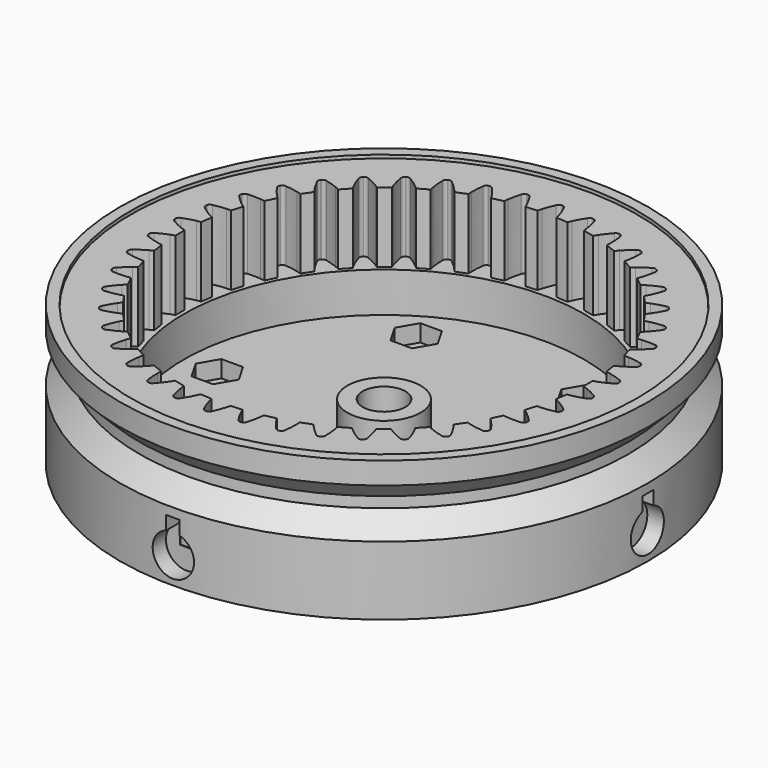
from build123d import *

# Parameters (mm, degrees)
PAD011_DEPTH          = 15
SKETCH019_R           = 0.15
SKETCH020_R           = 1.7
POCKET012_DEPTH       = 231.915721
POLARPATTERN001_COUNT = 6
POCKET013_DEPTH       = 2.55
POLARPATTERN_COUNT    = 6
SKETCH_R              = 1.5
POCKET_DEPTH          = 9
POLARPATTERN002_COUNT = 12
SKETCH022_W           = 2.6
SKETCH022_H           = 3.1
POLARPATTERN003_COUNT = 4
SKETCH023_W           = 2
SKETCH023_H           = 5
POCKET014_DEPTH       = 5
POLARPATTERN004_COUNT = 4
CHAMFER_SIZE          = 4


with BuildPart() as pad011:
    # InvoluteGear005 → Pad011 (new body)
    with BuildSketch(Plane.XY.offset(10)):
        with BuildLine():
            add(Edge.make_bspline(
                [(32.945842, -1.894398), (32.276697, -1.515423), (31.687965, -1.251623), (31.199009, -1.06892)],
                knots=[0, 0, 0, 0, 1, 1, 1, 1], degree=3))
            add(Edge.make_bspline(
                [(31.199009, -1.06892), (30.97308, -0.984517), (30.768823, -0.917605), (30.587794, -0.864651)],
                knots=[0, 0, 0, 0, 1, 1, 1, 1], degree=3))
            ThreePointArc((30.587794, -0.864651), (30.575569, -2e-06), (30.587782, 0.864646))
            add(Edge.make_bspline(
                [(30.587782, 0.864646), (30.768823, 0.917605), (30.97308, 0.984517), (31.199009, 1.06892)],
                knots=[0, 0, 0, 0, 1, 1, 1, 1], degree=3))
            add(Edge.make_bspline(
                [(31.199009, 1.06892), (31.687965, 1.251623), (32.276697, 1.515423), (32.945842, 1.894398)],
                knots=[0, 0, 0, 0, 1, 1, 1, 1], degree=3))
            ThreePointArc((32.945842, 1.894398), (33.204161, 2.118555), (33.284887, 2.450909))
            ThreePointArc((33.284887, 2.450909), (33.281621, 2.494113), (33.278411, 2.537321))
            ThreePointArc((33.278411, 2.537321), (33.149052, 2.853931), (32.86021, 3.037084))
            add(Edge.make_bspline(
                [(32.86021, 3.037084), (32.142055, 3.312095), (31.520581, 3.485203), (31.009856, 3.59299)],
                knots=[0, 0, 0, 0, 1, 1, 1, 1], degree=3))
            add(Edge.make_bspline(
                [(31.009856, 3.59299), (30.773871, 3.642777), (30.561923, 3.678499), (30.375023, 3.703881)],
                knots=[0, 0, 0, 0, 1, 1, 1, 1], degree=3))
            ThreePointArc((30.375023, 3.703881), (30.234066, 4.55705), (30.117273, 5.413861))
            add(Edge.make_bspline(
                [(30.117273, 5.413861), (30.288399, 5.493211), (30.480402, 5.589819), (30.691228, 5.706952)],
                knots=[0, 0, 0, 0, 1, 1, 1, 1], degree=3))
            add(Edge.make_bspline(
                [(30.691228, 5.706952), (31.147492, 5.96049), (31.690331, 6.309089), (32.295519, 6.783562)],
                knots=[0, 0, 0, 0, 1, 1, 1, 1], degree=3))
            ThreePointArc((32.295519, 6.783562), (32.517544, 7.043716), (32.547833, 7.384389))
            ThreePointArc((32.547833, 7.384389), (32.538164, 7.426624), (32.52855, 7.468871))
            ThreePointArc((32.52855, 7.468871), (32.353449, 7.762665), (32.040535, 7.900723))
            add(Edge.make_bspline(
                [(32.040535, 7.900723), (31.289413, 8.065626), (30.64908, 8.144175), (30.127994, 8.174639)],
                knots=[0, 0, 0, 0, 1, 1, 1, 1], degree=3))
            add(Edge.make_bspline(
                [(30.127994, 8.174639), (29.887225, 8.188698), (29.67232, 8.192432), (29.483724, 8.189674)],
                knots=[0, 0, 0, 0, 1, 1, 1, 1], degree=3))
            ThreePointArc((29.483724, 8.189674), (29.217183, 9.012305), (28.973993, 9.842139))
            add(Edge.make_bspline(
                [(28.973993, 9.842139), (29.131382, 9.946108), (29.306842, 10.070254), (29.497855, 10.2175)],
                knots=[0, 0, 0, 0, 1, 1, 1, 1], degree=3))
            add(Edge.make_bspline(
                [(29.497855, 10.2175), (29.911235, 10.536209), (30.396055, 10.961821), (30.923768, 11.521192)],
                knots=[0, 0, 0, 0, 1, 1, 1, 1], degree=3))
            ThreePointArc((30.923768, 11.521192), (31.104538, 11.811532), (31.083714, 12.152914))
            ThreePointArc((31.083714, 12.152914), (31.067859, 12.193236), (31.052056, 12.233579))
            ThreePointArc((31.052056, 12.233579), (30.835122, 12.497993), (30.505127, 12.587872))
            add(Edge.make_bspline(
                [(30.505127, 12.587872), (29.737817, 12.638985), (29.092929, 12.621219), (28.573123, 12.573679)],
                knots=[0, 0, 0, 0, 1, 1, 1, 1], degree=3))
            add(Edge.make_bspline(
                [(28.573123, 12.573679), (28.332947, 12.551697), (28.119886, 12.523359), (27.933808, 12.492523)],
                knots=[0, 0, 0, 0, 1, 1, 1, 1], degree=3))
            ThreePointArc((27.933808, 12.492523), (27.547637, 13.26624), (27.183483, 14.05056))
            add(Edge.make_bspline(
                [(27.183483, 14.05056), (27.323618, 14.176826), (27.478615, 14.325735), (27.645549, 14.499806)],
                knots=[0, 0, 0, 0, 1, 1, 1, 1], degree=3))
            add(Edge.make_bspline(
                [(27.645549, 14.499806), (28.006811, 14.876566), (28.422782, 15.369683), (28.86123, 16.001458)],
                knots=[0, 0, 0, 0, 1, 1, 1, 1], degree=3))
            ThreePointArc((28.86123, 16.001458), (28.996709, 16.315498), (28.925237, 16.649963))
            ThreePointArc((28.925237, 16.649963), (28.903549, 16.687472), (28.88191, 16.725009))
            ThreePointArc((28.88191, 16.725009), (28.62799, 16.954138), (28.288285, 16.993829))
            add(Edge.make_bspline(
                [(28.288285, 16.993829), (27.521927, 16.93001), (26.88689, 16.816327), (26.379975, 16.691845)],
                knots=[0, 0, 0, 0, 1, 1, 1, 1], degree=3))
            add(Edge.make_bspline(
                [(26.379975, 16.691845), (26.145758, 16.634311), (25.9393, 16.574535), (25.759897, 16.51631)],
                knots=[0, 0, 0, 0, 1, 1, 1, 1], degree=3))
            ThreePointArc((25.759897, 16.51631), (25.262722, 17.223829), (24.785739, 17.945115))
            add(Edge.make_bspline(
                [(24.785739, 17.945115), (24.90549, 18.090856), (25.036562, 18.261204), (25.175687, 18.458211)],
                knots=[0, 0, 0, 0, 1, 1, 1, 1], degree=3))
            add(Edge.make_bspline(
                [(25.175687, 18.458211), (25.476761, 18.884606), (25.814591, 19.434212), (26.15398, 20.124279)],
                knots=[0, 0, 0, 0, 1, 1, 1, 1], degree=3))
            ThreePointArc((26.15398, 20.124279), (26.241141, 20.455003), (26.120618, 20.77508))
            ThreePointArc((26.120618, 20.77508), (26.093582, 20.808937), (26.06659, 20.842829))
            ThreePointArc((26.06659, 20.842829), (25.781356, 21.031554), (25.439529, 21.020172))
            add(Edge.make_bspline(
                [(25.439529, 21.020172), (24.691243, 20.842846), (24.080242, 20.635785), (23.597542, 20.437142)],
                knots=[0, 0, 0, 0, 1, 1, 1, 1], degree=3))
            add(Edge.make_bspline(
                [(23.597542, 20.437142), (23.374516, 20.345343), (23.179273, 20.255463), (23.010552, 20.17115)],
                knots=[0, 0, 0, 0, 1, 1, 1, 1], degree=3))
            ThreePointArc((23.010552, 20.17115), (22.41348, 20.796667), (21.834322, 21.438806))
            add(Edge.make_bspline(
                [(21.834322, 21.438806), (21.931014, 21.600767), (22.035233, 21.788747), (22.143442, 22.004289)],
                knots=[0, 0, 0, 0, 1, 1, 1, 1], degree=3))
            add(Edge.make_bspline(
                [(22.143442, 22.004289), (22.377602, 22.470795), (22.629744, 23.064613), (22.862494, 23.797555)],
                knots=[0, 0, 0, 0, 1, 1, 1, 1], degree=3))
            ThreePointArc((22.862494, 23.797555), (22.899389, 24.137576), (22.732507, 24.436116))
            ThreePointArc((22.732507, 24.436116), (22.700727, 24.465565), (22.668985, 24.495056))
            ThreePointArc((22.668985, 24.495056), (22.358809, 24.639161), (22.022496, 24.576959))
            add(Edge.make_bspline(
                [(22.022496, 24.576959), (21.308997, 24.290087), (20.735681, 23.994274), (20.287979, 23.725907)],
                knots=[0, 0, 0, 0, 1, 1, 1, 1], degree=3))
            add(Edge.make_bspline(
                [(20.287979, 23.725907), (20.081126, 23.601893), (19.90146, 23.483917), (19.747189, 23.375399)],
                knots=[0, 0, 0, 0, 1, 1, 1, 1], degree=3))
            ThreePointArc((19.747189, 23.375399), (19.063558, 23.904941), (18.395162, 24.453589))
            add(Edge.make_bspline(
                [(18.395162, 24.453589), (18.466635, 24.628152), (18.541673, 24.829566), (18.616549, 25.058828)],
                knots=[0, 0, 0, 0, 1, 1, 1, 1], degree=3))
            add(Edge.make_bspline(
                [(18.616549, 25.058828), (18.778565, 25.555023), (18.939386, 26.179789), (19.060297, 26.939234)],
                knots=[0, 0, 0, 0, 1, 1, 1, 1], degree=3))
            ThreePointArc((19.060297, 26.939234), (19.046103, 27.280956), (18.83659, 27.551289))
            ThreePointArc((18.83659, 27.551289), (18.800775, 27.575673), (18.764992, 27.600103))
            ThreePointArc((18.764992, 27.600103), (18.436803, 27.69637), (18.113518, 27.584738))
            add(Edge.make_bspline(
                [(18.113518, 27.584738), (17.450744, 27.194728), (16.92792, 26.816771), (16.525216, 26.484675)],
                knots=[0, 0, 0, 0, 1, 1, 1, 1], degree=3))
            add(Edge.make_bspline(
                [(16.525216, 26.484675), (16.339157, 26.331216), (16.179081, 26.18778), (16.042707, 26.057481)],
                knots=[0, 0, 0, 0, 1, 1, 1, 1], degree=3))
            ThreePointArc((16.042707, 26.057481), (15.287787, 26.479219), (14.545085, 26.922119))
            add(Edge.make_bspline(
                [(14.545085, 26.922119), (14.589743, 27.105385), (14.633923, 27.315733), (14.673793, 27.553594)],
                knots=[0, 0, 0, 0, 1, 1, 1, 1], degree=3))
            add(Edge.make_bspline(
                [(14.673793, 27.553594), (14.760045, 28.068394), (14.825954, 28.710151), (14.832325, 29.479135)],
                knots=[0, 0, 0, 0, 1, 1, 1, 1], degree=3))
            ThreePointArc((14.832325, 29.479135), (14.767358, 29.814925), (14.519894, 30.051012))
            ThreePointArc((14.519894, 30.051012), (14.480845, 30.069785), (14.441821, 30.08861))
            ThreePointArc((14.441821, 30.08861), (14.10295, 30.134887), (13.799913, 29.976319))
            add(Edge.make_bspline(
                [(13.799913, 29.976319), (13.202669, 29.491884), (12.742017, 29.040225), (12.393307, 28.651819)],
                knots=[0, 0, 0, 0, 1, 1, 1, 1], degree=3))
            add(Edge.make_bspline(
                [(12.393307, 28.651819), (12.232198, 28.472343), (12.095288, 28.306651), (11.979857, 28.157482)],
                knots=[0, 0, 0, 0, 1, 1, 1, 1], degree=3))
            ThreePointArc((11.979857, 28.157482), (11.170512, 28.461994), (10.370095, 28.789254))
            add(Edge.make_bspline(
                [(10.370095, 28.789254), (10.386939, 28.977129), (10.399276, 29.191712), (10.403249, 29.432859)],
                knots=[0, 0, 0, 0, 1, 1, 1, 1], degree=3))
            add(Edge.make_bspline(
                [(10.403249, 29.432859), (10.41181, 29.954764), (10.381334, 30.599176), (10.273023, 31.360521)],
                knots=[0, 0, 0, 0, 1, 1, 1, 1], degree=3))
            ThreePointArc((10.273023, 31.360521), (10.158735, 31.682877), (9.878848, 31.879445))
            ThreePointArc((9.878848, 31.879445), (9.837437, 31.892189), (9.796043, 31.904986))
            ThreePointArc((9.796043, 31.904986), (9.45406, 31.900241), (9.178041, 31.698278))
            add(Edge.make_bspline(
                [(9.178041, 31.698278), (8.659669, 31.13024), (8.271478, 30.614969), (7.984552, 30.178928)],
                knots=[0, 0, 0, 0, 1, 1, 1, 1], degree=3))
            add(Edge.make_bspline(
                [(7.984552, 30.178928), (7.851992, 29.977445), (7.741306, 29.793198), (7.649397, 29.628491)],
                knots=[0, 0, 0, 0, 1, 1, 1, 1], degree=3))
            ThreePointArc((7.649397, 29.628491), (6.803707, 29.808975), (5.963454, 30.013284))
            add(Edge.make_bspline(
                [(5.963454, 30.013284), (5.952109, 30.201571), (5.932325, 30.415596), (5.900313, 30.654642)],
                knots=[0, 0, 0, 0, 1, 1, 1, 1], degree=3))
            add(Edge.make_bspline(
                [(5.900313, 30.654642), (5.830993, 31.171994), (5.704813, 31.804667), (5.484239, 32.541364)],
                knots=[0, 0, 0, 0, 1, 1, 1, 1], degree=3))
            ThreePointArc((5.484239, 32.541364), (5.323182, 32.843086), (5.017125, 32.995743))
            ThreePointArc((5.017125, 32.995743), (4.974277, 33.002173), (4.931438, 33.008659))
            ThreePointArc((4.931438, 33.008659), (4.593981, 32.952996), (4.351146, 32.712151))
            add(Edge.make_bspline(
                [(4.351146, 32.712151), (3.923226, 32.073197), (3.616168, 31.505825), (3.397436, 31.03189)],
                knots=[0, 0, 0, 0, 1, 1, 1, 1], degree=3))
            add(Edge.make_bspline(
                [(3.397436, 31.03189), (3.296386, 30.8129), (3.214396, 30.614215), (3.148062, 30.437649)],
                knots=[0, 0, 0, 0, 1, 1, 1, 1], degree=3))
            ThreePointArc((3.148062, 30.437649), (2.284918, 30.490074), (1.423599, 30.566867))
            add(Edge.make_bspline(
                [(1.423599, 30.566867), (1.384318, 30.75136), (1.332857, 30.960046), (1.265574, 31.191651)],
                knots=[0, 0, 0, 0, 1, 1, 1, 1], degree=3))
            add(Edge.make_bspline(
                [(1.265574, 31.191651), (1.119921, 31.692893), (0.900855, 32.299693), (0.572945, 32.995288)],
                knots=[0, 0, 0, 0, 1, 1, 1, 1], degree=3))
            ThreePointArc((0.572945, 32.995288), (0.368719, 33.269636), (0.043327, 33.374972))
            ThreePointArc((0.043327, 33.374972), (0, 33.374944), (-0.043327, 33.374972))
            ThreePointArc((-0.043327, 33.374972), (-0.368719, 33.269636), (-0.572945, 32.995288))
            add(Edge.make_bspline(
                [(-0.572945, 32.995288), (-0.900855, 32.299693), (-1.119921, 31.692893), (-1.265574, 31.191651)],
                knots=[0, 0, 0, 0, 1, 1, 1, 1], degree=3))
            add(Edge.make_bspline(
                [(-1.265574, 31.191651), (-1.332857, 30.960046), (-1.384318, 30.75136), (-1.423596, 30.56688)],
                knots=[0, 0, 0, 0, 1, 1, 1, 1], degree=3))
            ThreePointArc((-1.423596, 30.56688), (-2.284913, 30.490074), (-3.148056, 30.437637))
            add(Edge.make_bspline(
                [(-3.148056, 30.437637), (-3.214396, 30.614215), (-3.296386, 30.8129), (-3.397436, 31.03189)],
                knots=[0, 0, 0, 0, 1, 1, 1, 1], degree=3))
            add(Edge.make_bspline(
                [(-3.397436, 31.03189), (-3.616168, 31.505825), (-3.923226, 32.073197), (-4.351146, 32.712151)],
                knots=[0, 0, 0, 0, 1, 1, 1, 1], degree=3))
            ThreePointArc((-4.351146, 32.712151), (-4.593981, 32.952996), (-4.931438, 33.008659))
            ThreePointArc((-4.931438, 33.008659), (-4.974277, 33.002173), (-5.017125, 32.995743))
            ThreePointArc((-5.017125, 32.995743), (-5.323182, 32.843086), (-5.484239, 32.541364))
            add(Edge.make_bspline(
                [(-5.484239, 32.541364), (-5.704813, 31.804667), (-5.830993, 31.171994), (-5.900313, 30.654642)],
                knots=[0, 0, 0, 0, 1, 1, 1, 1], degree=3))
            add(Edge.make_bspline(
                [(-5.900313, 30.654642), (-5.932325, 30.415596), (-5.952109, 30.201571), (-5.963452, 30.013297)],
                knots=[0, 0, 0, 0, 1, 1, 1, 1], degree=3))
            ThreePointArc((-5.963452, 30.013297), (-6.803702, 29.808977), (-7.649389, 29.62848))
            add(Edge.make_bspline(
                [(-7.649389, 29.62848), (-7.741306, 29.793198), (-7.851992, 29.977445), (-7.984552, 30.178928)],
                knots=[0, 0, 0, 0, 1, 1, 1, 1], degree=3))
            add(Edge.make_bspline(
                [(-7.984552, 30.178928), (-8.271478, 30.614969), (-8.659669, 31.13024), (-9.178041, 31.698278)],
                knots=[0, 0, 0, 0, 1, 1, 1, 1], degree=3))
            ThreePointArc((-9.178041, 31.698278), (-9.45406, 31.900241), (-9.796043, 31.904986))
            ThreePointArc((-9.796043, 31.904986), (-9.837437, 31.892189), (-9.878848, 31.879445))
            ThreePointArc((-9.878848, 31.879445), (-10.158735, 31.682877), (-10.273023, 31.360521))
            add(Edge.make_bspline(
                [(-10.273023, 31.360521), (-10.381334, 30.599176), (-10.41181, 29.954764), (-10.403249, 29.432859)],
                knots=[0, 0, 0, 0, 1, 1, 1, 1], degree=3))
            add(Edge.make_bspline(
                [(-10.403249, 29.432859), (-10.399276, 29.191712), (-10.386939, 28.977129), (-10.370095, 28.789267)],
                knots=[0, 0, 0, 0, 1, 1, 1, 1], degree=3))
            ThreePointArc((-10.370095, 28.789267), (-11.170508, 28.461996), (-11.979848, 28.157472))
            add(Edge.make_bspline(
                [(-11.979848, 28.157472), (-12.095288, 28.306651), (-12.232198, 28.472343), (-12.393307, 28.651819)],
                knots=[0, 0, 0, 0, 1, 1, 1, 1], degree=3))
            add(Edge.make_bspline(
                [(-12.393307, 28.651819), (-12.742017, 29.040225), (-13.202669, 29.491884), (-13.799913, 29.976319)],
                knots=[0, 0, 0, 0, 1, 1, 1, 1], degree=3))
            ThreePointArc((-13.799913, 29.976319), (-14.10295, 30.134887), (-14.441821, 30.08861))
            ThreePointArc((-14.441821, 30.08861), (-14.480845, 30.069785), (-14.519894, 30.051012))
            ThreePointArc((-14.519894, 30.051012), (-14.767358, 29.814925), (-14.832325, 29.479135))
            add(Edge.make_bspline(
                [(-14.832325, 29.479135), (-14.825954, 28.710151), (-14.760045, 28.068394), (-14.673793, 27.553594)],
                knots=[0, 0, 0, 0, 1, 1, 1, 1], degree=3))
            add(Edge.make_bspline(
                [(-14.673793, 27.553594), (-14.633923, 27.315733), (-14.589743, 27.105385), (-14.545087, 26.922132)],
                knots=[0, 0, 0, 0, 1, 1, 1, 1], degree=3))
            ThreePointArc((-14.545087, 26.922132), (-15.287783, 26.479221), (-16.042696, 26.057473))
            add(Edge.make_bspline(
                [(-16.042696, 26.057473), (-16.179081, 26.18778), (-16.339157, 26.331216), (-16.525216, 26.484675)],
                knots=[0, 0, 0, 0, 1, 1, 1, 1], degree=3))
            add(Edge.make_bspline(
                [(-16.525216, 26.484675), (-16.92792, 26.816771), (-17.450744, 27.194728), (-18.113518, 27.584738)],
                knots=[0, 0, 0, 0, 1, 1, 1, 1], degree=3))
            ThreePointArc((-18.113518, 27.584738), (-18.436803, 27.69637), (-18.764992, 27.600103))
            ThreePointArc((-18.764992, 27.600103), (-18.800775, 27.575673), (-18.83659, 27.551289))
            ThreePointArc((-18.83659, 27.551289), (-19.046103, 27.280956), (-19.060297, 26.939234))
            add(Edge.make_bspline(
                [(-19.060297, 26.939234), (-18.939386, 26.179789), (-18.778565, 25.555023), (-18.616549, 25.058828)],
                knots=[0, 0, 0, 0, 1, 1, 1, 1], degree=3))
            add(Edge.make_bspline(
                [(-18.616549, 25.058828), (-18.541673, 24.829566), (-18.466635, 24.628152), (-18.395166, 24.453601)],
                knots=[0, 0, 0, 0, 1, 1, 1, 1], degree=3))
            ThreePointArc((-18.395166, 24.453601), (-19.063554, 23.904944), (-19.747177, 23.375393))
            add(Edge.make_bspline(
                [(-19.747177, 23.375393), (-19.90146, 23.483917), (-20.081126, 23.601893), (-20.287979, 23.725907)],
                knots=[0, 0, 0, 0, 1, 1, 1, 1], degree=3))
            add(Edge.make_bspline(
                [(-20.287979, 23.725907), (-20.735681, 23.994274), (-21.308997, 24.290087), (-22.022496, 24.576959)],
                knots=[0, 0, 0, 0, 1, 1, 1, 1], degree=3))
            ThreePointArc((-22.022496, 24.576959), (-22.358809, 24.639161), (-22.668985, 24.495056))
            ThreePointArc((-22.668985, 24.495056), (-22.700727, 24.465565), (-22.732507, 24.436116))
            ThreePointArc((-22.732507, 24.436116), (-22.899389, 24.137576), (-22.862494, 23.797555))
            add(Edge.make_bspline(
                [(-22.862494, 23.797555), (-22.629744, 23.064613), (-22.377602, 22.470795), (-22.143442, 22.004289)],
                knots=[0, 0, 0, 0, 1, 1, 1, 1], degree=3))
            add(Edge.make_bspline(
                [(-22.143442, 22.004289), (-22.035233, 21.788747), (-21.931014, 21.600767), (-21.834328, 21.438817)],
                knots=[0, 0, 0, 0, 1, 1, 1, 1], degree=3))
            ThreePointArc((-21.834328, 21.438817), (-22.413477, 20.796671), (-23.010539, 20.171145))
            add(Edge.make_bspline(
                [(-23.010539, 20.171145), (-23.179273, 20.255463), (-23.374516, 20.345343), (-23.597542, 20.437142)],
                knots=[0, 0, 0, 0, 1, 1, 1, 1], degree=3))
            add(Edge.make_bspline(
                [(-23.597542, 20.437142), (-24.080242, 20.635785), (-24.691243, 20.842846), (-25.439529, 21.020172)],
                knots=[0, 0, 0, 0, 1, 1, 1, 1], degree=3))
            ThreePointArc((-25.439529, 21.020172), (-25.781356, 21.031554), (-26.06659, 20.842829))
            ThreePointArc((-26.06659, 20.842829), (-26.093582, 20.808937), (-26.120618, 20.77508))
            ThreePointArc((-26.120618, 20.77508), (-26.241141, 20.455003), (-26.15398, 20.124279))
            add(Edge.make_bspline(
                [(-26.15398, 20.124279), (-25.814591, 19.434212), (-25.476761, 18.884606), (-25.175687, 18.458211)],
                knots=[0, 0, 0, 0, 1, 1, 1, 1], degree=3))
            add(Edge.make_bspline(
                [(-25.175687, 18.458211), (-25.036562, 18.261204), (-24.90549, 18.090856), (-24.785746, 17.945126)],
                knots=[0, 0, 0, 0, 1, 1, 1, 1], degree=3))
            ThreePointArc((-24.785746, 17.945126), (-25.26272, 17.223834), (-25.759884, 16.516307))
            add(Edge.make_bspline(
                [(-25.759884, 16.516307), (-25.9393, 16.574535), (-26.145758, 16.634311), (-26.379975, 16.691845)],
                knots=[0, 0, 0, 0, 1, 1, 1, 1], degree=3))
            add(Edge.make_bspline(
                [(-26.379975, 16.691845), (-26.88689, 16.816327), (-27.521927, 16.93001), (-28.288285, 16.993829)],
                knots=[0, 0, 0, 0, 1, 1, 1, 1], degree=3))
            ThreePointArc((-28.288285, 16.993829), (-28.62799, 16.954138), (-28.88191, 16.725009))
            ThreePointArc((-28.88191, 16.725009), (-28.903549, 16.687472), (-28.925237, 16.649963))
            ThreePointArc((-28.925237, 16.649963), (-28.996709, 16.315498), (-28.86123, 16.001458))
            add(Edge.make_bspline(
                [(-28.86123, 16.001458), (-28.422782, 15.369683), (-28.006811, 14.876566), (-27.645549, 14.499806)],
                knots=[0, 0, 0, 0, 1, 1, 1, 1], degree=3))
            add(Edge.make_bspline(
                [(-27.645549, 14.499806), (-27.478615, 14.325735), (-27.323618, 14.176826), (-27.183492, 14.05057)],
                knots=[0, 0, 0, 0, 1, 1, 1, 1], degree=3))
            ThreePointArc((-27.183492, 14.05057), (-27.547635, 13.266245), (-27.933795, 12.492522))
            add(Edge.make_bspline(
                [(-27.933795, 12.492522), (-28.119886, 12.523359), (-28.332947, 12.551697), (-28.573123, 12.573679)],
                knots=[0, 0, 0, 0, 1, 1, 1, 1], degree=3))
            add(Edge.make_bspline(
                [(-28.573123, 12.573679), (-29.092929, 12.621219), (-29.737817, 12.638985), (-30.505127, 12.587872)],
                knots=[0, 0, 0, 0, 1, 1, 1, 1], degree=3))
            ThreePointArc((-30.505127, 12.587872), (-30.835122, 12.497993), (-31.052056, 12.233579))
            ThreePointArc((-31.052056, 12.233579), (-31.067859, 12.193236), (-31.083714, 12.152914))
            ThreePointArc((-31.083714, 12.152914), (-31.104538, 11.811532), (-30.923768, 11.521192))
            add(Edge.make_bspline(
                [(-30.923768, 11.521192), (-30.396055, 10.961821), (-29.911235, 10.536209), (-29.497855, 10.2175)],
                knots=[0, 0, 0, 0, 1, 1, 1, 1], degree=3))
            add(Edge.make_bspline(
                [(-29.497855, 10.2175), (-29.306842, 10.070254), (-29.131382, 9.946108), (-28.974004, 9.842147)],
                knots=[0, 0, 0, 0, 1, 1, 1, 1], degree=3))
            ThreePointArc((-28.974004, 9.842147), (-29.217182, 9.01231), (-29.483711, 8.189675))
            add(Edge.make_bspline(
                [(-29.483711, 8.189675), (-29.67232, 8.192432), (-29.887225, 8.188698), (-30.127994, 8.174639)],
                knots=[0, 0, 0, 0, 1, 1, 1, 1], degree=3))
            add(Edge.make_bspline(
                [(-30.127994, 8.174639), (-30.64908, 8.144175), (-31.289413, 8.065626), (-32.040535, 7.900723)],
                knots=[0, 0, 0, 0, 1, 1, 1, 1], degree=3))
            ThreePointArc((-32.040535, 7.900723), (-32.353449, 7.762665), (-32.52855, 7.468871))
            ThreePointArc((-32.52855, 7.468871), (-32.538164, 7.426624), (-32.547833, 7.384389))
            ThreePointArc((-32.547833, 7.384389), (-32.517544, 7.043716), (-32.295519, 6.783562))
            add(Edge.make_bspline(
                [(-32.295519, 6.783562), (-31.690331, 6.309089), (-31.147492, 5.96049), (-30.691228, 5.706952)],
                knots=[0, 0, 0, 0, 1, 1, 1, 1], degree=3))
            add(Edge.make_bspline(
                [(-30.691228, 5.706952), (-30.480402, 5.589819), (-30.288399, 5.493211), (-30.117284, 5.413868)],
                knots=[0, 0, 0, 0, 1, 1, 1, 1], degree=3))
            ThreePointArc((-30.117284, 5.413868), (-30.234065, 4.557055), (-30.37501, 3.703884))
            add(Edge.make_bspline(
                [(-30.37501, 3.703884), (-30.561923, 3.678499), (-30.773871, 3.642777), (-31.009856, 3.59299)],
                knots=[0, 0, 0, 0, 1, 1, 1, 1], degree=3))
            add(Edge.make_bspline(
                [(-31.009856, 3.59299), (-31.520581, 3.485203), (-32.142055, 3.312095), (-32.86021, 3.037084)],
                knots=[0, 0, 0, 0, 1, 1, 1, 1], degree=3))
            ThreePointArc((-32.86021, 3.037084), (-33.149052, 2.853931), (-33.278411, 2.537321))
            ThreePointArc((-33.278411, 2.537321), (-33.281621, 2.494113), (-33.284887, 2.450909))
            ThreePointArc((-33.284887, 2.450909), (-33.204161, 2.118555), (-32.945842, 1.894398))
            add(Edge.make_bspline(
                [(-32.945842, 1.894398), (-32.276697, 1.515423), (-31.687965, 1.251623), (-31.199009, 1.06892)],
                knots=[0, 0, 0, 0, 1, 1, 1, 1], degree=3))
            add(Edge.make_bspline(
                [(-31.199009, 1.06892), (-30.97308, 0.984517), (-30.768823, 0.917605), (-30.587794, 0.864651)],
                knots=[0, 0, 0, 0, 1, 1, 1, 1], degree=3))
            ThreePointArc((-30.587794, 0.864651), (-30.575569, 2e-06), (-30.587782, -0.864646))
            add(Edge.make_bspline(
                [(-30.587782, -0.864646), (-30.768823, -0.917605), (-30.97308, -0.984517), (-31.199009, -1.06892)],
                knots=[0, 0, 0, 0, 1, 1, 1, 1], degree=3))
            add(Edge.make_bspline(
                [(-31.199009, -1.06892), (-31.687965, -1.251623), (-32.276697, -1.515423), (-32.945842, -1.894398)],
                knots=[0, 0, 0, 0, 1, 1, 1, 1], degree=3))
            ThreePointArc((-32.945842, -1.894398), (-33.204161, -2.118555), (-33.284887, -2.450909))
            ThreePointArc((-33.284887, -2.450909), (-33.281621, -2.494113), (-33.278411, -2.537321))
            ThreePointArc((-33.278411, -2.537321), (-33.149052, -2.853931), (-32.86021, -3.037084))
            add(Edge.make_bspline(
                [(-32.86021, -3.037084), (-32.142055, -3.312095), (-31.520581, -3.485203), (-31.009856, -3.59299)],
                knots=[0, 0, 0, 0, 1, 1, 1, 1], degree=3))
            add(Edge.make_bspline(
                [(-31.009856, -3.59299), (-30.773871, -3.642777), (-30.561923, -3.678499), (-30.375023, -3.703881)],
                knots=[0, 0, 0, 0, 1, 1, 1, 1], degree=3))
            ThreePointArc((-30.375023, -3.703881), (-30.234066, -4.55705), (-30.117273, -5.413861))
            add(Edge.make_bspline(
                [(-30.117273, -5.413861), (-30.288399, -5.493211), (-30.480402, -5.589819), (-30.691228, -5.706952)],
                knots=[0, 0, 0, 0, 1, 1, 1, 1], degree=3))
            add(Edge.make_bspline(
                [(-30.691228, -5.706952), (-31.147492, -5.96049), (-31.690331, -6.309089), (-32.295519, -6.783562)],
                knots=[0, 0, 0, 0, 1, 1, 1, 1], degree=3))
            ThreePointArc((-32.295519, -6.783562), (-32.517544, -7.043716), (-32.547833, -7.384389))
            ThreePointArc((-32.547833, -7.384389), (-32.538164, -7.426624), (-32.52855, -7.468871))
            ThreePointArc((-32.52855, -7.468871), (-32.353449, -7.762665), (-32.040535, -7.900723))
            add(Edge.make_bspline(
                [(-32.040535, -7.900723), (-31.289413, -8.065626), (-30.64908, -8.144175), (-30.127994, -8.174639)],
                knots=[0, 0, 0, 0, 1, 1, 1, 1], degree=3))
            add(Edge.make_bspline(
                [(-30.127994, -8.174639), (-29.887225, -8.188698), (-29.67232, -8.192432), (-29.483724, -8.189674)],
                knots=[0, 0, 0, 0, 1, 1, 1, 1], degree=3))
            ThreePointArc((-29.483724, -8.189674), (-29.217183, -9.012305), (-28.973993, -9.842139))
            add(Edge.make_bspline(
                [(-28.973993, -9.842139), (-29.131382, -9.946108), (-29.306842, -10.070254), (-29.497855, -10.2175)],
                knots=[0, 0, 0, 0, 1, 1, 1, 1], degree=3))
            add(Edge.make_bspline(
                [(-29.497855, -10.2175), (-29.911235, -10.536209), (-30.396055, -10.961821), (-30.923768, -11.521192)],
                knots=[0, 0, 0, 0, 1, 1, 1, 1], degree=3))
            ThreePointArc((-30.923768, -11.521192), (-31.104538, -11.811532), (-31.083714, -12.152914))
            ThreePointArc((-31.083714, -12.152914), (-31.067859, -12.193236), (-31.052056, -12.233579))
            ThreePointArc((-31.052056, -12.233579), (-30.835122, -12.497993), (-30.505127, -12.587872))
            add(Edge.make_bspline(
                [(-30.505127, -12.587872), (-29.737817, -12.638985), (-29.092929, -12.621219), (-28.573123, -12.573679)],
                knots=[0, 0, 0, 0, 1, 1, 1, 1], degree=3))
            add(Edge.make_bspline(
                [(-28.573123, -12.573679), (-28.332947, -12.551697), (-28.119886, -12.523359), (-27.933808, -12.492523)],
                knots=[0, 0, 0, 0, 1, 1, 1, 1], degree=3))
            ThreePointArc((-27.933808, -12.492523), (-27.547637, -13.26624), (-27.183483, -14.05056))
            add(Edge.make_bspline(
                [(-27.183483, -14.05056), (-27.323618, -14.176826), (-27.478615, -14.325735), (-27.645549, -14.499806)],
                knots=[0, 0, 0, 0, 1, 1, 1, 1], degree=3))
            add(Edge.make_bspline(
                [(-27.645549, -14.499806), (-28.006811, -14.876566), (-28.422782, -15.369683), (-28.86123, -16.001458)],
                knots=[0, 0, 0, 0, 1, 1, 1, 1], degree=3))
            ThreePointArc((-28.86123, -16.001458), (-28.996709, -16.315498), (-28.925237, -16.649963))
            ThreePointArc((-28.925237, -16.649963), (-28.903549, -16.687472), (-28.88191, -16.725009))
            ThreePointArc((-28.88191, -16.725009), (-28.62799, -16.954138), (-28.288285, -16.993829))
            add(Edge.make_bspline(
                [(-28.288285, -16.993829), (-27.521927, -16.93001), (-26.88689, -16.816327), (-26.379975, -16.691845)],
                knots=[0, 0, 0, 0, 1, 1, 1, 1], degree=3))
            add(Edge.make_bspline(
                [(-26.379975, -16.691845), (-26.145758, -16.634311), (-25.9393, -16.574535), (-25.759897, -16.51631)],
                knots=[0, 0, 0, 0, 1, 1, 1, 1], degree=3))
            ThreePointArc((-25.759897, -16.51631), (-25.262722, -17.223829), (-24.785739, -17.945115))
            add(Edge.make_bspline(
                [(-24.785739, -17.945115), (-24.90549, -18.090856), (-25.036562, -18.261204), (-25.175687, -18.458211)],
                knots=[0, 0, 0, 0, 1, 1, 1, 1], degree=3))
            add(Edge.make_bspline(
                [(-25.175687, -18.458211), (-25.476761, -18.884606), (-25.814591, -19.434212), (-26.15398, -20.124279)],
                knots=[0, 0, 0, 0, 1, 1, 1, 1], degree=3))
            ThreePointArc((-26.15398, -20.124279), (-26.241141, -20.455003), (-26.120618, -20.77508))
            ThreePointArc((-26.120618, -20.77508), (-26.093582, -20.808937), (-26.06659, -20.842829))
            ThreePointArc((-26.06659, -20.842829), (-25.781356, -21.031554), (-25.439529, -21.020172))
            add(Edge.make_bspline(
                [(-25.439529, -21.020172), (-24.691243, -20.842846), (-24.080242, -20.635785), (-23.597542, -20.437142)],
                knots=[0, 0, 0, 0, 1, 1, 1, 1], degree=3))
            add(Edge.make_bspline(
                [(-23.597542, -20.437142), (-23.374516, -20.345343), (-23.179273, -20.255463), (-23.010552, -20.17115)],
                knots=[0, 0, 0, 0, 1, 1, 1, 1], degree=3))
            ThreePointArc((-23.010552, -20.17115), (-22.41348, -20.796667), (-21.834322, -21.438806))
            add(Edge.make_bspline(
                [(-21.834322, -21.438806), (-21.931014, -21.600767), (-22.035233, -21.788747), (-22.143442, -22.004289)],
                knots=[0, 0, 0, 0, 1, 1, 1, 1], degree=3))
            add(Edge.make_bspline(
                [(-22.143442, -22.004289), (-22.377602, -22.470795), (-22.629744, -23.064613), (-22.862494, -23.797555)],
                knots=[0, 0, 0, 0, 1, 1, 1, 1], degree=3))
            ThreePointArc((-22.862494, -23.797555), (-22.899389, -24.137576), (-22.732507, -24.436116))
            ThreePointArc((-22.732507, -24.436116), (-22.700727, -24.465565), (-22.668985, -24.495056))
            ThreePointArc((-22.668985, -24.495056), (-22.358809, -24.639161), (-22.022496, -24.576959))
            add(Edge.make_bspline(
                [(-22.022496, -24.576959), (-21.308997, -24.290087), (-20.735681, -23.994274), (-20.287979, -23.725907)],
                knots=[0, 0, 0, 0, 1, 1, 1, 1], degree=3))
            add(Edge.make_bspline(
                [(-20.287979, -23.725907), (-20.081126, -23.601893), (-19.90146, -23.483917), (-19.747189, -23.375399)],
                knots=[0, 0, 0, 0, 1, 1, 1, 1], degree=3))
            ThreePointArc((-19.747189, -23.375399), (-19.063558, -23.904941), (-18.395162, -24.453589))
            add(Edge.make_bspline(
                [(-18.395162, -24.453589), (-18.466635, -24.628152), (-18.541673, -24.829566), (-18.616549, -25.058828)],
                knots=[0, 0, 0, 0, 1, 1, 1, 1], degree=3))
            add(Edge.make_bspline(
                [(-18.616549, -25.058828), (-18.778565, -25.555023), (-18.939386, -26.179789), (-19.060297, -26.939234)],
                knots=[0, 0, 0, 0, 1, 1, 1, 1], degree=3))
            ThreePointArc((-19.060297, -26.939234), (-19.046103, -27.280956), (-18.83659, -27.551289))
            ThreePointArc((-18.83659, -27.551289), (-18.800775, -27.575673), (-18.764992, -27.600103))
            ThreePointArc((-18.764992, -27.600103), (-18.436803, -27.69637), (-18.113518, -27.584738))
            add(Edge.make_bspline(
                [(-18.113518, -27.584738), (-17.450744, -27.194728), (-16.92792, -26.816771), (-16.525216, -26.484675)],
                knots=[0, 0, 0, 0, 1, 1, 1, 1], degree=3))
            add(Edge.make_bspline(
                [(-16.525216, -26.484675), (-16.339157, -26.331216), (-16.179081, -26.18778), (-16.042707, -26.057481)],
                knots=[0, 0, 0, 0, 1, 1, 1, 1], degree=3))
            ThreePointArc((-16.042707, -26.057481), (-15.287787, -26.479219), (-14.545085, -26.922119))
            add(Edge.make_bspline(
                [(-14.545085, -26.922119), (-14.589743, -27.105385), (-14.633923, -27.315733), (-14.673793, -27.553594)],
                knots=[0, 0, 0, 0, 1, 1, 1, 1], degree=3))
            add(Edge.make_bspline(
                [(-14.673793, -27.553594), (-14.760045, -28.068394), (-14.825954, -28.710151), (-14.832325, -29.479135)],
                knots=[0, 0, 0, 0, 1, 1, 1, 1], degree=3))
            ThreePointArc((-14.832325, -29.479135), (-14.767358, -29.814925), (-14.519894, -30.051012))
            ThreePointArc((-14.519894, -30.051012), (-14.480845, -30.069785), (-14.441821, -30.08861))
            ThreePointArc((-14.441821, -30.08861), (-14.10295, -30.134887), (-13.799913, -29.976319))
            add(Edge.make_bspline(
                [(-13.799913, -29.976319), (-13.202669, -29.491884), (-12.742017, -29.040225), (-12.393307, -28.651819)],
                knots=[0, 0, 0, 0, 1, 1, 1, 1], degree=3))
            add(Edge.make_bspline(
                [(-12.393307, -28.651819), (-12.232198, -28.472343), (-12.095288, -28.306651), (-11.979857, -28.157482)],
                knots=[0, 0, 0, 0, 1, 1, 1, 1], degree=3))
            ThreePointArc((-11.979857, -28.157482), (-11.170512, -28.461994), (-10.370095, -28.789254))
            add(Edge.make_bspline(
                [(-10.370095, -28.789254), (-10.386939, -28.977129), (-10.399276, -29.191712), (-10.403249, -29.432859)],
                knots=[0, 0, 0, 0, 1, 1, 1, 1], degree=3))
            add(Edge.make_bspline(
                [(-10.403249, -29.432859), (-10.41181, -29.954764), (-10.381334, -30.599176), (-10.273023, -31.360521)],
                knots=[0, 0, 0, 0, 1, 1, 1, 1], degree=3))
            ThreePointArc((-10.273023, -31.360521), (-10.158735, -31.682877), (-9.878848, -31.879445))
            ThreePointArc((-9.878848, -31.879445), (-9.837437, -31.892189), (-9.796043, -31.904986))
            ThreePointArc((-9.796043, -31.904986), (-9.45406, -31.900241), (-9.178041, -31.698278))
            add(Edge.make_bspline(
                [(-9.178041, -31.698278), (-8.659669, -31.13024), (-8.271478, -30.614969), (-7.984552, -30.178928)],
                knots=[0, 0, 0, 0, 1, 1, 1, 1], degree=3))
            add(Edge.make_bspline(
                [(-7.984552, -30.178928), (-7.851992, -29.977445), (-7.741306, -29.793198), (-7.649397, -29.628491)],
                knots=[0, 0, 0, 0, 1, 1, 1, 1], degree=3))
            ThreePointArc((-7.649397, -29.628491), (-6.803707, -29.808975), (-5.963454, -30.013284))
            add(Edge.make_bspline(
                [(-5.963454, -30.013284), (-5.952109, -30.201571), (-5.932325, -30.415596), (-5.900313, -30.654642)],
                knots=[0, 0, 0, 0, 1, 1, 1, 1], degree=3))
            add(Edge.make_bspline(
                [(-5.900313, -30.654642), (-5.830993, -31.171994), (-5.704813, -31.804667), (-5.484239, -32.541364)],
                knots=[0, 0, 0, 0, 1, 1, 1, 1], degree=3))
            ThreePointArc((-5.484239, -32.541364), (-5.323182, -32.843086), (-5.017125, -32.995743))
            ThreePointArc((-5.017125, -32.995743), (-4.974277, -33.002173), (-4.931438, -33.008659))
            ThreePointArc((-4.931438, -33.008659), (-4.593981, -32.952996), (-4.351146, -32.712151))
            add(Edge.make_bspline(
                [(-4.351146, -32.712151), (-3.923226, -32.073197), (-3.616168, -31.505825), (-3.397436, -31.03189)],
                knots=[0, 0, 0, 0, 1, 1, 1, 1], degree=3))
            add(Edge.make_bspline(
                [(-3.397436, -31.03189), (-3.296386, -30.8129), (-3.214396, -30.614215), (-3.148062, -30.437649)],
                knots=[0, 0, 0, 0, 1, 1, 1, 1], degree=3))
            ThreePointArc((-3.148062, -30.437649), (-2.284918, -30.490074), (-1.423599, -30.566867))
            add(Edge.make_bspline(
                [(-1.423599, -30.566867), (-1.384318, -30.75136), (-1.332857, -30.960046), (-1.265574, -31.191651)],
                knots=[0, 0, 0, 0, 1, 1, 1, 1], degree=3))
            add(Edge.make_bspline(
                [(-1.265574, -31.191651), (-1.119921, -31.692893), (-0.900855, -32.299693), (-0.572945, -32.995288)],
                knots=[0, 0, 0, 0, 1, 1, 1, 1], degree=3))
            ThreePointArc((-0.572945, -32.995288), (-0.368719, -33.269636), (-0.043327, -33.374972))
            ThreePointArc((-0.043327, -33.374972), (0, -33.374944), (0.043327, -33.374972))
            ThreePointArc((0.043327, -33.374972), (0.368719, -33.269636), (0.572945, -32.995288))
            add(Edge.make_bspline(
                [(0.572945, -32.995288), (0.900855, -32.299693), (1.119921, -31.692893), (1.265574, -31.191651)],
                knots=[0, 0, 0, 0, 1, 1, 1, 1], degree=3))
            add(Edge.make_bspline(
                [(1.265574, -31.191651), (1.332857, -30.960046), (1.384318, -30.75136), (1.423596, -30.56688)],
                knots=[0, 0, 0, 0, 1, 1, 1, 1], degree=3))
            ThreePointArc((1.423596, -30.56688), (2.284913, -30.490074), (3.148056, -30.437637))
            add(Edge.make_bspline(
                [(3.148056, -30.437637), (3.214396, -30.614215), (3.296386, -30.8129), (3.397436, -31.03189)],
                knots=[0, 0, 0, 0, 1, 1, 1, 1], degree=3))
            add(Edge.make_bspline(
                [(3.397436, -31.03189), (3.616168, -31.505825), (3.923226, -32.073197), (4.351146, -32.712151)],
                knots=[0, 0, 0, 0, 1, 1, 1, 1], degree=3))
            ThreePointArc((4.351146, -32.712151), (4.593981, -32.952996), (4.931438, -33.008659))
            ThreePointArc((4.931438, -33.008659), (4.974277, -33.002173), (5.017125, -32.995743))
            ThreePointArc((5.017125, -32.995743), (5.323182, -32.843086), (5.484239, -32.541364))
            add(Edge.make_bspline(
                [(5.484239, -32.541364), (5.704813, -31.804667), (5.830993, -31.171994), (5.900313, -30.654642)],
                knots=[0, 0, 0, 0, 1, 1, 1, 1], degree=3))
            add(Edge.make_bspline(
                [(5.900313, -30.654642), (5.932325, -30.415596), (5.952109, -30.201571), (5.963452, -30.013297)],
                knots=[0, 0, 0, 0, 1, 1, 1, 1], degree=3))
            ThreePointArc((5.963452, -30.013297), (6.803702, -29.808977), (7.649389, -29.62848))
            add(Edge.make_bspline(
                [(7.649389, -29.62848), (7.741306, -29.793198), (7.851992, -29.977445), (7.984552, -30.178928)],
                knots=[0, 0, 0, 0, 1, 1, 1, 1], degree=3))
            add(Edge.make_bspline(
                [(7.984552, -30.178928), (8.271478, -30.614969), (8.659669, -31.13024), (9.178041, -31.698278)],
                knots=[0, 0, 0, 0, 1, 1, 1, 1], degree=3))
            ThreePointArc((9.178041, -31.698278), (9.45406, -31.900241), (9.796043, -31.904986))
            ThreePointArc((9.796043, -31.904986), (9.837437, -31.892189), (9.878848, -31.879445))
            ThreePointArc((9.878848, -31.879445), (10.158735, -31.682877), (10.273023, -31.360521))
            add(Edge.make_bspline(
                [(10.273023, -31.360521), (10.381334, -30.599176), (10.41181, -29.954764), (10.403249, -29.432859)],
                knots=[0, 0, 0, 0, 1, 1, 1, 1], degree=3))
            add(Edge.make_bspline(
                [(10.403249, -29.432859), (10.399276, -29.191712), (10.386939, -28.977129), (10.370095, -28.789267)],
                knots=[0, 0, 0, 0, 1, 1, 1, 1], degree=3))
            ThreePointArc((10.370095, -28.789267), (11.170508, -28.461996), (11.979848, -28.157472))
            add(Edge.make_bspline(
                [(11.979848, -28.157472), (12.095288, -28.306651), (12.232198, -28.472343), (12.393307, -28.651819)],
                knots=[0, 0, 0, 0, 1, 1, 1, 1], degree=3))
            add(Edge.make_bspline(
                [(12.393307, -28.651819), (12.742017, -29.040225), (13.202669, -29.491884), (13.799913, -29.976319)],
                knots=[0, 0, 0, 0, 1, 1, 1, 1], degree=3))
            ThreePointArc((13.799913, -29.976319), (14.10295, -30.134887), (14.441821, -30.08861))
            ThreePointArc((14.441821, -30.08861), (14.480845, -30.069785), (14.519894, -30.051012))
            ThreePointArc((14.519894, -30.051012), (14.767358, -29.814925), (14.832325, -29.479135))
            add(Edge.make_bspline(
                [(14.832325, -29.479135), (14.825954, -28.710151), (14.760045, -28.068394), (14.673793, -27.553594)],
                knots=[0, 0, 0, 0, 1, 1, 1, 1], degree=3))
            add(Edge.make_bspline(
                [(14.673793, -27.553594), (14.633923, -27.315733), (14.589743, -27.105385), (14.545087, -26.922132)],
                knots=[0, 0, 0, 0, 1, 1, 1, 1], degree=3))
            ThreePointArc((14.545087, -26.922132), (15.287783, -26.479221), (16.042696, -26.057473))
            add(Edge.make_bspline(
                [(16.042696, -26.057473), (16.179081, -26.18778), (16.339157, -26.331216), (16.525216, -26.484675)],
                knots=[0, 0, 0, 0, 1, 1, 1, 1], degree=3))
            add(Edge.make_bspline(
                [(16.525216, -26.484675), (16.92792, -26.816771), (17.450744, -27.194728), (18.113518, -27.584738)],
                knots=[0, 0, 0, 0, 1, 1, 1, 1], degree=3))
            ThreePointArc((18.113518, -27.584738), (18.436803, -27.69637), (18.764992, -27.600103))
            ThreePointArc((18.764992, -27.600103), (18.800775, -27.575673), (18.83659, -27.551289))
            ThreePointArc((18.83659, -27.551289), (19.046103, -27.280956), (19.060297, -26.939234))
            add(Edge.make_bspline(
                [(19.060297, -26.939234), (18.939386, -26.179789), (18.778565, -25.555023), (18.616549, -25.058828)],
                knots=[0, 0, 0, 0, 1, 1, 1, 1], degree=3))
            add(Edge.make_bspline(
                [(18.616549, -25.058828), (18.541673, -24.829566), (18.466635, -24.628152), (18.395166, -24.453601)],
                knots=[0, 0, 0, 0, 1, 1, 1, 1], degree=3))
            ThreePointArc((18.395166, -24.453601), (19.063554, -23.904944), (19.747177, -23.375393))
            add(Edge.make_bspline(
                [(19.747177, -23.375393), (19.90146, -23.483917), (20.081126, -23.601893), (20.287979, -23.725907)],
                knots=[0, 0, 0, 0, 1, 1, 1, 1], degree=3))
            add(Edge.make_bspline(
                [(20.287979, -23.725907), (20.735681, -23.994274), (21.308997, -24.290087), (22.022496, -24.576959)],
                knots=[0, 0, 0, 0, 1, 1, 1, 1], degree=3))
            ThreePointArc((22.022496, -24.576959), (22.358809, -24.639161), (22.668985, -24.495056))
            ThreePointArc((22.668985, -24.495056), (22.700727, -24.465565), (22.732507, -24.436116))
            ThreePointArc((22.732507, -24.436116), (22.899389, -24.137576), (22.862494, -23.797555))
            add(Edge.make_bspline(
                [(22.862494, -23.797555), (22.629744, -23.064613), (22.377602, -22.470795), (22.143442, -22.004289)],
                knots=[0, 0, 0, 0, 1, 1, 1, 1], degree=3))
            add(Edge.make_bspline(
                [(22.143442, -22.004289), (22.035233, -21.788747), (21.931014, -21.600767), (21.834328, -21.438817)],
                knots=[0, 0, 0, 0, 1, 1, 1, 1], degree=3))
            ThreePointArc((21.834328, -21.438817), (22.413477, -20.796671), (23.010539, -20.171145))
            add(Edge.make_bspline(
                [(23.010539, -20.171145), (23.179273, -20.255463), (23.374516, -20.345343), (23.597542, -20.437142)],
                knots=[0, 0, 0, 0, 1, 1, 1, 1], degree=3))
            add(Edge.make_bspline(
                [(23.597542, -20.437142), (24.080242, -20.635785), (24.691243, -20.842846), (25.439529, -21.020172)],
                knots=[0, 0, 0, 0, 1, 1, 1, 1], degree=3))
            ThreePointArc((25.439529, -21.020172), (25.781356, -21.031554), (26.06659, -20.842829))
            ThreePointArc((26.06659, -20.842829), (26.093582, -20.808937), (26.120618, -20.77508))
            ThreePointArc((26.120618, -20.77508), (26.241141, -20.455003), (26.15398, -20.124279))
            add(Edge.make_bspline(
                [(26.15398, -20.124279), (25.814591, -19.434212), (25.476761, -18.884606), (25.175687, -18.458211)],
                knots=[0, 0, 0, 0, 1, 1, 1, 1], degree=3))
            add(Edge.make_bspline(
                [(25.175687, -18.458211), (25.036562, -18.261204), (24.90549, -18.090856), (24.785746, -17.945126)],
                knots=[0, 0, 0, 0, 1, 1, 1, 1], degree=3))
            ThreePointArc((24.785746, -17.945126), (25.26272, -17.223834), (25.759884, -16.516307))
            add(Edge.make_bspline(
                [(25.759884, -16.516307), (25.9393, -16.574535), (26.145758, -16.634311), (26.379975, -16.691845)],
                knots=[0, 0, 0, 0, 1, 1, 1, 1], degree=3))
            add(Edge.make_bspline(
                [(26.379975, -16.691845), (26.88689, -16.816327), (27.521927, -16.93001), (28.288285, -16.993829)],
                knots=[0, 0, 0, 0, 1, 1, 1, 1], degree=3))
            ThreePointArc((28.288285, -16.993829), (28.62799, -16.954138), (28.88191, -16.725009))
            ThreePointArc((28.88191, -16.725009), (28.903549, -16.687472), (28.925237, -16.649963))
            ThreePointArc((28.925237, -16.649963), (28.996709, -16.315498), (28.86123, -16.001458))
            add(Edge.make_bspline(
                [(28.86123, -16.001458), (28.422782, -15.369683), (28.006811, -14.876566), (27.645549, -14.499806)],
                knots=[0, 0, 0, 0, 1, 1, 1, 1], degree=3))
            add(Edge.make_bspline(
                [(27.645549, -14.499806), (27.478615, -14.325735), (27.323618, -14.176826), (27.183492, -14.05057)],
                knots=[0, 0, 0, 0, 1, 1, 1, 1], degree=3))
            ThreePointArc((27.183492, -14.05057), (27.547635, -13.266245), (27.933795, -12.492522))
            add(Edge.make_bspline(
                [(27.933795, -12.492522), (28.119886, -12.523359), (28.332947, -12.551697), (28.573123, -12.573679)],
                knots=[0, 0, 0, 0, 1, 1, 1, 1], degree=3))
            add(Edge.make_bspline(
                [(28.573123, -12.573679), (29.092929, -12.621219), (29.737817, -12.638985), (30.505127, -12.587872)],
                knots=[0, 0, 0, 0, 1, 1, 1, 1], degree=3))
            ThreePointArc((30.505127, -12.587872), (30.835122, -12.497993), (31.052056, -12.233579))
            ThreePointArc((31.052056, -12.233579), (31.067859, -12.193236), (31.083714, -12.152914))
            ThreePointArc((31.083714, -12.152914), (31.104538, -11.811532), (30.923768, -11.521192))
            add(Edge.make_bspline(
                [(30.923768, -11.521192), (30.396055, -10.961821), (29.911235, -10.536209), (29.497855, -10.2175)],
                knots=[0, 0, 0, 0, 1, 1, 1, 1], degree=3))
            add(Edge.make_bspline(
                [(29.497855, -10.2175), (29.306842, -10.070254), (29.131382, -9.946108), (28.974004, -9.842147)],
                knots=[0, 0, 0, 0, 1, 1, 1, 1], degree=3))
            ThreePointArc((28.974004, -9.842147), (29.217182, -9.01231), (29.483711, -8.189675))
            add(Edge.make_bspline(
                [(29.483711, -8.189675), (29.67232, -8.192432), (29.887225, -8.188698), (30.127994, -8.174639)],
                knots=[0, 0, 0, 0, 1, 1, 1, 1], degree=3))
            add(Edge.make_bspline(
                [(30.127994, -8.174639), (30.64908, -8.144175), (31.289413, -8.065626), (32.040535, -7.900723)],
                knots=[0, 0, 0, 0, 1, 1, 1, 1], degree=3))
            ThreePointArc((32.040535, -7.900723), (32.353449, -7.762665), (32.52855, -7.468871))
            ThreePointArc((32.52855, -7.468871), (32.538164, -7.426624), (32.547833, -7.384389))
            ThreePointArc((32.547833, -7.384389), (32.517544, -7.043716), (32.295519, -6.783562))
            add(Edge.make_bspline(
                [(32.295519, -6.783562), (31.690331, -6.309089), (31.147492, -5.96049), (30.691228, -5.706952)],
                knots=[0, 0, 0, 0, 1, 1, 1, 1], degree=3))
            add(Edge.make_bspline(
                [(30.691228, -5.706952), (30.480402, -5.589819), (30.288399, -5.493211), (30.117284, -5.413868)],
                knots=[0, 0, 0, 0, 1, 1, 1, 1], degree=3))
            ThreePointArc((30.117284, -5.413868), (30.234065, -4.557055), (30.37501, -3.703884))
            add(Edge.make_bspline(
                [(30.37501, -3.703884), (30.561923, -3.678499), (30.773871, -3.642777), (31.009856, -3.59299)],
                knots=[0, 0, 0, 0, 1, 1, 1, 1], degree=3))
            add(Edge.make_bspline(
                [(31.009856, -3.59299), (31.520581, -3.485203), (32.142055, -3.312095), (32.86021, -3.037084)],
                knots=[0, 0, 0, 0, 1, 1, 1, 1], degree=3))
            ThreePointArc((32.86021, -3.037084), (33.149052, -2.853931), (33.278411, -2.537321))
            ThreePointArc((33.278411, -2.537321), (33.281621, -2.494113), (33.284887, -2.450909))
            ThreePointArc((33.284887, -2.450909), (33.204161, -2.118555), (32.945842, -1.894398))
        make_face()
    extrude(amount=PAD011_DEPTH)


with BuildPart() as final:
    # Sketch019 → Revolution001 (revolve)
    with BuildSketch(Plane.XZ):
        Polygon((3.2, 8.5), (3.2, 0), (39.6, 0), (39.6, 10.298781), (36.7, 13.198781), (36.7, 14.801219), (39.6, 17.701219), (39.6, 21), (38, 21), (38, 20.5), (30, 20.5), (30, 4), (5.5, 4), (5.5, 8.5), align=None)
        with Locations((36.88873, 10.88873)):
            Circle(SKETCH019_R, mode=Mode.SUBTRACT)
        with Locations((36.88873, 17.11127)):
            Circle(SKETCH019_R, mode=Mode.SUBTRACT)
        with Locations((36.5, 19)):
            Circle(SKETCH019_R, mode=Mode.SUBTRACT)
        with Locations((35.57868, 15.801219)):
            Circle(SKETCH019_R, mode=Mode.SUBTRACT)
        with Locations((35.57868, 12.198781)):
            Circle(SKETCH019_R, mode=Mode.SUBTRACT)
        with Locations((35.57868, 14)):
            Circle(SKETCH019_R, mode=Mode.SUBTRACT)
        with Locations((38.090812, 18.313351)):
            Circle(SKETCH019_R, mode=Mode.SUBTRACT)
    revolve(axis=Axis((0, 0, 0), (0, 0, 1)))

    # Cut001: cut Pad011
    add(pad011.part, mode=Mode.SUBTRACT)

    # Sketch020 → Pocket012 (cut, through all)
    with BuildSketch(Plane.XY.offset(4)):
        with Locations((25, 0)):
            Circle(SKETCH020_R)
    pocket012 = extrude(amount=-POCKET012_DEPTH, mode=Mode.SUBTRACT)

    # PolarPattern001: Pocket012 ×6 about axis
    polarpattern001_axis = Axis((0, 0, 4), (0, 0, 1))
    for i in range(1, POLARPATTERN001_COUNT):
        add(pocket012.rotate(polarpattern001_axis, i * 360 / POLARPATTERN001_COUNT), mode=Mode.SUBTRACT)

    # Sketch021 → Pocket013 (cut)
    with BuildSketch(Plane.XY.offset(4)):
        Polygon((26.616581, 2.8), (23.383419, 2.8), (21.766838, 0), (23.383419, -2.8), (26.616581, -2.8), (28.233162, 0), align=None)
    pocket013 = extrude(amount=-POCKET013_DEPTH, mode=Mode.SUBTRACT)

    # PolarPattern: Pocket013 ×6 about axis
    polarpattern_axis = Axis((0, 0, 4), (0, 0, 1))
    for i in range(1, POLARPATTERN_COUNT):
        add(pocket013.rotate(polarpattern_axis, i * 360 / POLARPATTERN_COUNT), mode=Mode.SUBTRACT)

    # Sketch → Pocket (cut)
    with BuildSketch(Plane.XY.offset(8.5)):
        with Locations((34.5, 0)):
            Circle(SKETCH_R)
    pocket = extrude(amount=-POCKET_DEPTH, mode=Mode.SUBTRACT)

    # PolarPattern002: Pocket ×12 about axis
    polarpattern002_axis = Axis((0, 0, 8.5), (0, 0, 1))
    for i in range(1, POLARPATTERN002_COUNT):
        add(pocket.rotate(polarpattern002_axis, i * 360 / POLARPATTERN002_COUNT), mode=Mode.SUBTRACT)

    # Sketch022 → Groove (revolve, cut)
    with BuildSketch(Plane.XY.offset(4)):
        with Locations((-38.3, 1.55)):
            Rectangle(SKETCH022_W, SKETCH022_H)
    groove = revolve(axis=Axis((0, 0, 4), (1, 0, 0)), mode=Mode.SUBTRACT)

    # PolarPattern003: Groove ×4 about axis
    polarpattern003_axis = Axis((0, 0, 4), (0, 0, 1))
    for i in range(1, POLARPATTERN003_COUNT):
        add(groove.rotate(polarpattern003_axis, i * 360 / POLARPATTERN003_COUNT), mode=Mode.SUBTRACT)

    # Sketch023 → Pocket014 (cut)
    with BuildSketch(Plane.XY.offset(4)):
        with Locations((0, 39.4)):
            Rectangle(SKETCH023_W, SKETCH023_H)
    pocket014 = extrude(amount=POCKET014_DEPTH, mode=Mode.SUBTRACT)

    # PolarPattern004: Pocket014 ×4 about axis
    polarpattern004_axis = Axis((0, 0, 4), (0, 0, 1))
    for i in range(1, POLARPATTERN004_COUNT):
        add(pocket014.rotate(polarpattern004_axis, i * 360 / POLARPATTERN004_COUNT), mode=Mode.SUBTRACT)

    # Chamfer
    chamfer_edges = [final.edges().sort_by_distance(p)[0] for p in [
        (-3.2, 0, 0),
    ]]
    chamfer(chamfer_edges, length=CHAMFER_SIZE)


solid = final.part
